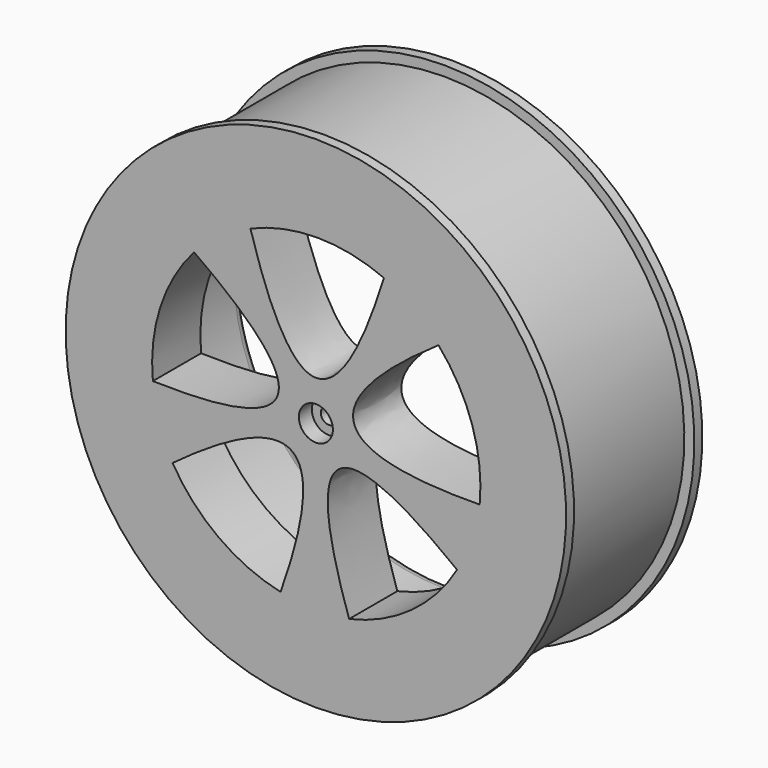
from build123d import *

# Parameters (mm, degrees)
POCKET_DEPTH       = 145.459123
POCKET_DEPTH_BACK  = 177.459123
POLARPATTERN_COUNT = 5


with BuildPart() as part:
    # Sketch009 → Revolution (revolve)
    with BuildSketch(Plane.YZ):
        with BuildLine():
            Line((-32, 25), (-31.006334, 25))
            Line((-31.006334, 24), (-31.006334, 25))
            Line((-15.98482, 24), (-31.006334, 24))
            Line((-15.98482, 25), (-15.98482, 24))
            Line((-15.98482, 25), (-14.98482, 25))
            Line((-14.98482, 25), (-14.98482, 21.997654))
            ThreePointArc((-15.998639, 21.00955), (-15.282862, 21.289299), (-14.98482, 21.997654))
            Line((-15.998639, 21.00955), (-25.00382, 21.00955))
            ThreePointArc((-25.00382, 21.00955), (-25.68626, 20.700427), (-25.977919, 20.010342))
            Line((-25.977919, 2.4), (-25.977919, 20.010342))
            Line((-28.777919, 2.4), (-25.977919, 2.4))
            Line((-28.777919, 0.8), (-28.777919, 2.4))
            Line((-30.377919, 0.8), (-28.777919, 0.8))
            Line((-30.377919, 1.7), (-30.377919, 0.8))
            Line((-32, 1.7), (-30.377919, 1.7))
            Line((-32, 25), (-32, 1.7))
        make_face()
    revolve(axis=Axis((0, 0, 0), (0, 1, 0)))

    # Sketch010 → Pocket (cut, two sides)
    with BuildSketch(Plane(origin=(-5.2, 0, 0), x_dir=(1, 0, 0), z_dir=(0, -1, 0))) as pocket_sk:
        with BuildLine():
            add(Edge.make_bspline(
                [(11.995053, 15.000581), (5.131915, -6.987182), (-1.338915, 15.000254)],
                knots=[-6.684799, -6.684799, -6.684799, 6.648635, 6.648635, 6.648635], degree=2))
            ThreePointArc((-1.338915, 15.000254), (5.328035, 16.380749), (11.995053, 15.000581))
        make_face()
    pocket = extrude(amount=-POCKET_DEPTH, mode=Mode.SUBTRACT) + extrude(pocket_sk.sketch, amount=POCKET_DEPTH_BACK, mode=Mode.SUBTRACT)

    # PolarPattern: Pocket ×5 about axis
    polarpattern_axis = Axis((0, 0, 0), (0, 1, 0))
    for i in range(1, POLARPATTERN_COUNT):
        add(pocket.rotate(polarpattern_axis, i * 360 / POLARPATTERN_COUNT), mode=Mode.SUBTRACT)


with BuildPart() as part_1:
    # Body007 placement: moved
    add(part.part.moved(Location((5.2, 0, 0))))


solid = part_1.part
